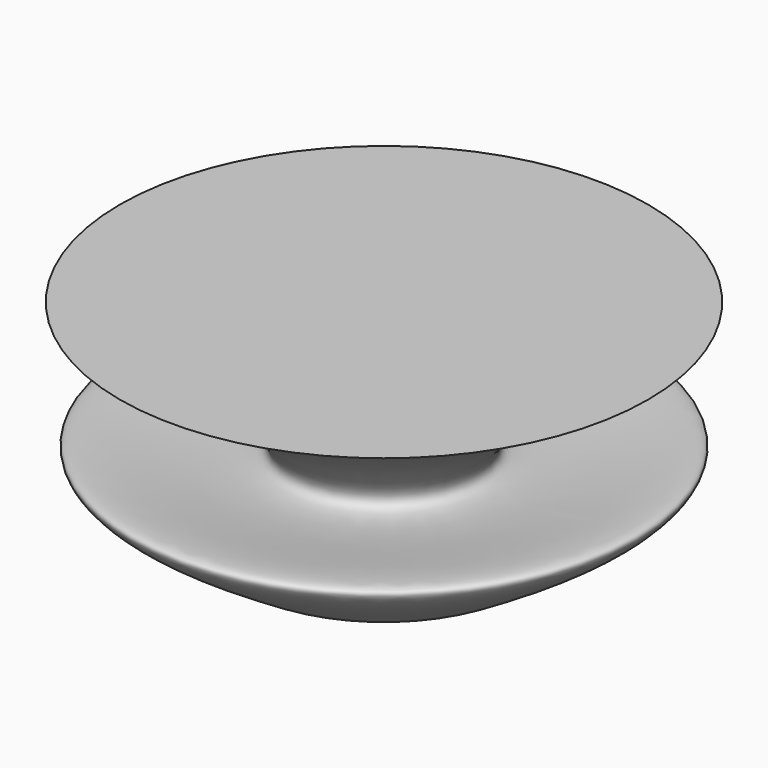
from build123d import *


with BuildPart() as f1:
    # F0 (on Front) → F1 (revolve)
    with BuildSketch(Plane.XZ):
        with BuildLine():
            Line((0, 0), (50, 0))
            add(Edge.make_bspline(
                [(50, 0), (70.8069784582, 12.706053757), (112.8735039839, 40.0554936332), (-2.2035731781, 8.4250432344), (53.0376106008, 54.145526706), (90, 70)],
                knots=[0, 0, 0, 0, 0.2985595204, 0.6198944542, 1, 1, 1, 1], degree=3))
            Line((90, 70), (0, 70))
            Line((0, 70), (0, 0))
        make_face()
    revolve(axis=Axis((0, 0, 46.3668704033), (0, 0, 1)))


solid = f1.part
